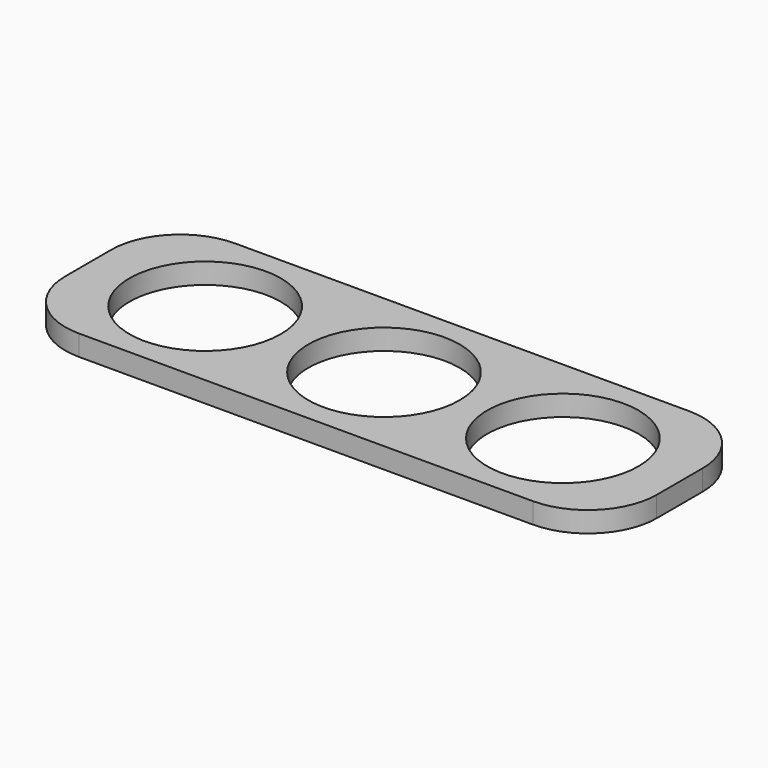
from build123d import *

# Parameters (mm, degrees)
F0_R     = 11
F1_DEPTH = 3


with BuildPart() as f1:
    # F0 (on Top) → F1 (new body)
    with BuildSketch(Plane.XY):
        with BuildLine():
            Line((32.983547, 14.180062), (-32.983547, 14.180062))
            ThreePointArc((-32.983547, 14.180062), (-40.054615, 11.25113), (-42.983547, 4.180062))
            Line((-42.983547, 4.180062), (-42.983547, -4.180062))
            ThreePointArc((-42.983547, -4.180062), (-40.054615, -11.25113), (-32.983547, -14.180062))
            Line((-32.983547, -14.180062), (32.983547, -14.180062))
            ThreePointArc((32.983547, -14.180062), (40.054615, -11.25113), (42.983547, -4.180062))
            Line((42.983547, -4.180062), (42.983547, 4.180062))
            ThreePointArc((42.983547, 4.180062), (40.054615, 11.25113), (32.983547, 14.180062))
        make_face()
        with Locations((-26, 0)):
            Circle(F0_R, mode=Mode.SUBTRACT)
        Circle(F0_R, mode=Mode.SUBTRACT)
        with Locations((26, 0)):
            Circle(F0_R, mode=Mode.SUBTRACT)
    extrude(amount=F1_DEPTH)


solid = f1.part
